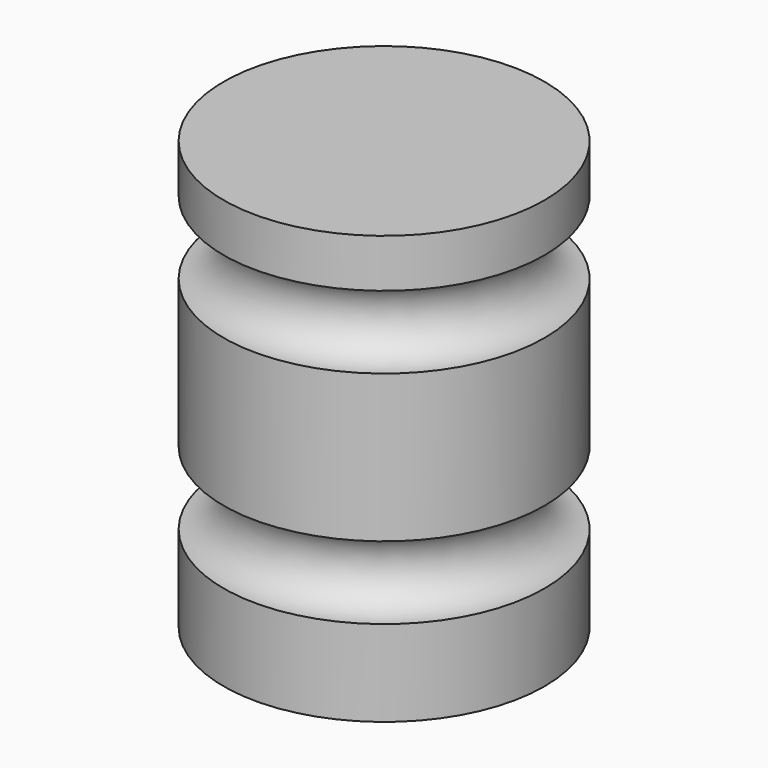
from build123d import *


with BuildPart() as f1:
    # F0 (on Front) → F1 (revolve)
    with BuildSketch(Plane.XZ):
        with BuildLine():
            Line((-38.1, 0), (0, 0))
            Line((0, 0), (0, 20.455632))
            ThreePointArc((0, 20.455632), (-8.6487, 29.104332), (0, 37.753032))
            Line((0, 37.753032), (0, 72.818359))
            ThreePointArc((0, 72.818359), (-8.644911, 81.46327), (0, 90.108181))
            Line((0, 90.108181), (0, 101.6))
            Line((0, 101.6), (-38.1, 101.6))
            Line((-38.1, 101.6), (-38.1, 0))
        make_face()
    revolve(axis=Axis((-38.1, 0, 50.8), (0, 0, 1)))


solid = f1.part
